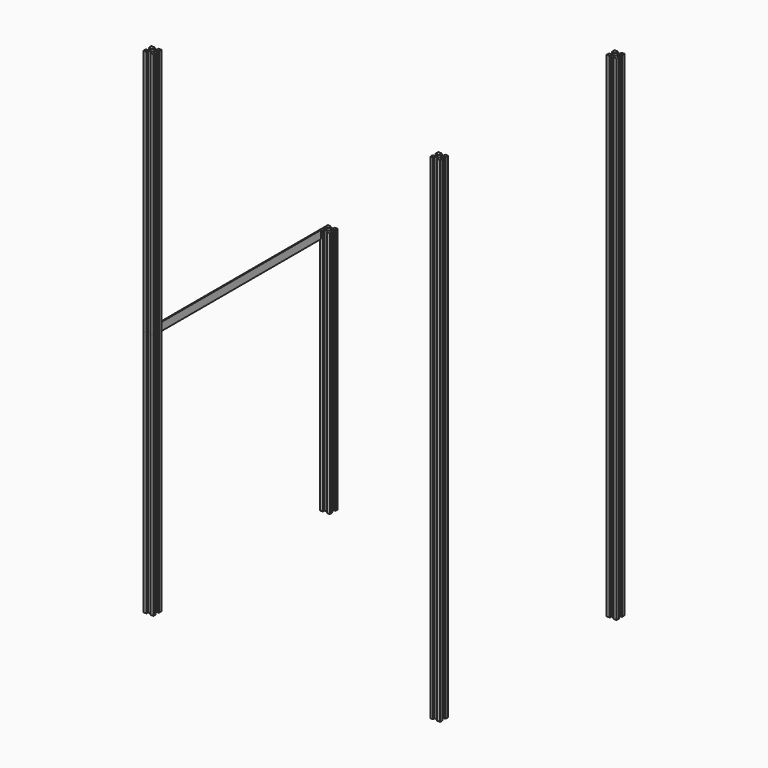
from build123d import *

# Parameters (mm, degrees)
F1_DEPTH = 127
F2_W     = 59.182
F2_H     = 2.0574
F3_DEPTH = 0.254
F4_DEPTH = 63.5


with BuildPart() as f1:
    # F0 (on Top) → F1 (new body)
    with BuildSketch(Plane.XY):
        Polygon((75.435355, 56.642), (76.2, 56.642), (76.2, 57.382349), (75.703458, 57.382349), (75.703458, 58.387429), (76.2, 58.387429), (76.2, 59.182), (75.435355, 59.182), (75.435355, 58.665238), (74.439637, 58.665238), (74.439637, 59.182), (73.66, 59.182), (73.66, 58.405377), (74.159944, 58.405377), (74.159944, 57.912), (74.159944, 57.382349), (73.66, 57.382349), (73.66, 56.642), (74.439637, 56.642), (74.439637, 57.159521), (75.435355, 57.159521), align=None)
        with BuildLine():
            ThreePointArc((75.439701, 57.912), (74.931701, 57.404), (74.423701, 57.912))
            ThreePointArc((74.423701, 57.912), (74.931701, 58.42), (75.439701, 57.912))
        make_face(mode=Mode.SUBTRACT)
        Polygon((73.66, 0.73318), (73.66, 0), (74.383944, 0), (74.383944, 0.516951), (75.407833, 0.516951), (75.407833, 0), (76.2, 0), (76.2, 0.73318), (75.692, 0.73318), (75.692, 1.745307), (76.2, 1.745307), (76.2, 2.54), (75.446472, 2.54), (75.446472, 2.043123), (74.461222, 2.043123), (74.461222, 2.54), (73.66, 2.54), (73.66, 1.745307), (74.163118, 1.745307), (74.163118, 1.27), (74.163118, 0.73318), align=None)
        with BuildLine():
            ThreePointArc((75.444446, 1.27), (74.932334, 0.757888), (74.420222, 1.27))
            ThreePointArc((74.420222, 1.27), (74.932334, 1.782112), (75.444446, 1.27))
        make_face(mode=Mode.SUBTRACT)
        Polygon((0, 0.736638), (0, 0), (0.780634, 0), (0.780634, 0.499567), (1.786142, 0.499567), (1.786142, 0), (2.54, 0), (2.54, 0.736638), (2.031388, 0.736638), (2.031388, 1.750321), (2.54, 1.750321), (2.54, 2.54), (1.786142, 2.54), (1.786142, 2.036441), (0.772459, 2.036441), (0.772459, 2.54), (0, 2.54), (0, 1.750321), (0.519038, 1.750321), (0.519038, 1.27), (0.519038, 0.736638), align=None)
        with BuildLine():
            ThreePointArc((1.792188, 1.27), (1.2793, 0.757113), (0.766413, 1.27))
            ThreePointArc((0.766413, 1.27), (1.2793, 1.782887), (1.792188, 1.27))
        make_face(mode=Mode.SUBTRACT)
    extrude(amount=F1_DEPTH)


with BuildPart() as f3:
    # F2 (on Right) → F3 (new body)
    with BuildSketch(Plane.YZ):
        with Locations((29.591, 62.4713)):
            Rectangle(F2_W, F2_H)
    extrude(amount=F3_DEPTH)


with BuildPart() as f4:
    # F0 (on Top) → F4 (new body)
    with BuildSketch(Plane.XY):
        Polygon((0, 0.736638), (0, 0), (0.780634, 0), (0.780634, 0.499567), (1.786142, 0.499567), (1.786142, 0), (2.54, 0), (2.54, 0.736638), (2.031388, 0.736638), (2.031388, 1.750321), (2.54, 1.750321), (2.54, 2.54), (1.786142, 2.54), (1.786142, 2.036441), (0.772459, 2.036441), (0.772459, 2.54), (0, 2.54), (0, 1.750321), (0.519038, 1.750321), (0.519038, 1.27), (0.519038, 0.736638), align=None)
        with BuildLine():
            ThreePointArc((1.792188, 1.27), (1.2793, 0.757113), (0.766413, 1.27))
            ThreePointArc((0.766413, 1.27), (1.2793, 1.782887), (1.792188, 1.27))
        make_face(mode=Mode.SUBTRACT)
        Polygon((0, 57.373393), (0, 56.642), (0.738544, 56.642), (0.738544, 57.139702), (1.78547, 57.139702), (1.78547, 56.642), (2.54, 56.642), (2.54, 57.373393), (2.037854, 57.373393), (2.037854, 58.42), (2.54, 58.42), (2.54, 59.182), (1.78547, 59.182), (1.78547, 58.682051), (0.738544, 58.682051), (0.738544, 59.182), (0, 59.182), (0, 58.392275), (0.504856, 58.392275), (0.504856, 57.912), (0.504856, 57.373393), align=None)
        with BuildLine():
            ThreePointArc((1.77885, 57.912), (1.262007, 57.395158), (0.745165, 57.912))
            ThreePointArc((0.745165, 57.912), (1.262007, 58.428842), (1.77885, 57.912))
        make_face(mode=Mode.SUBTRACT)
    extrude(amount=F4_DEPTH)


solid = Compound([f1.part, f3.part, f4.part])
